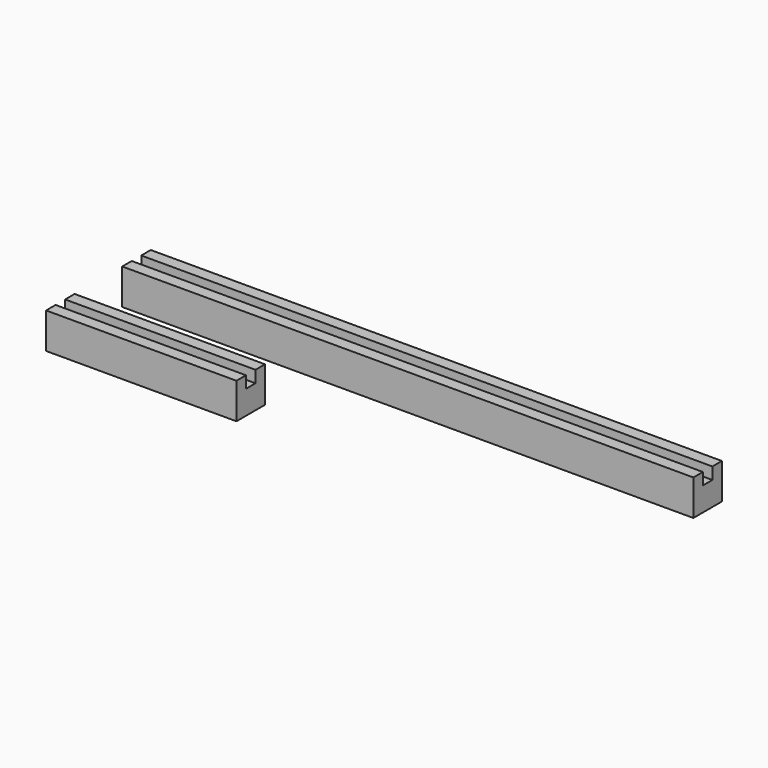
from build123d import *

# Parameters (mm, degrees)
F1_DEPTH = 50.8
F5_DEPTH = 101.6


with BuildPart() as f1:
    # F0 (on Right) → F1 (new body)
    with BuildSketch(Plane.YZ):
        Polygon((0, 9.525), (0, 0), (9.525, 0), (9.525, 9.525), (6.35, 9.525), (6.35, 6.35), (3.175, 6.35), (3.175, 9.525), align=None)
    extrude(amount=F1_DEPTH)


with BuildPart() as f2_1:
    # F2: copy of F1
    add(f1.part)


with BuildPart() as f2_1_1:
    # F3: moved
    add(f2_1.part.moved(Location((0, -25.4, 0))))


with BuildPart() as f1_1:
    add(f1.part)

    # F4 (on face) → F5 (join)
    with BuildSketch(Plane.YZ.offset(50.8)):
        Polygon((3.175, 9.525), (0, 9.525), (0, 0), (9.525, 0), (9.525, 9.525), (6.35, 9.525), (6.35, 6.35), (3.175, 6.35), align=None)
    extrude(amount=F5_DEPTH)


solid = Compound([f2_1_1.part, f1_1.part])
